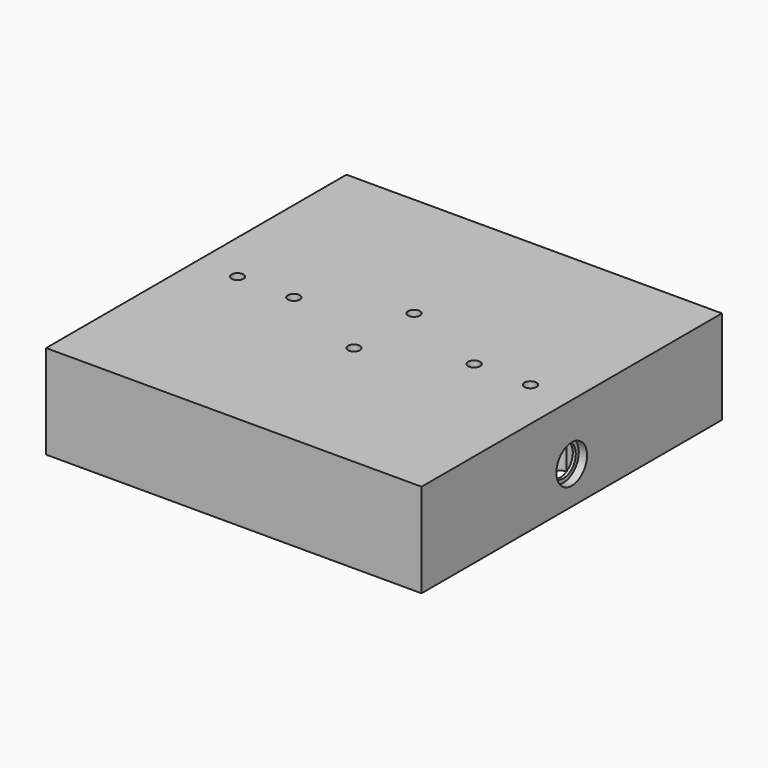
from build123d import *

# Parameters (mm, degrees)
F0_W           = 100
F0_H           = 100
F1_DEPTH       = 25
F2_W           = 94
F2_H           = 94
F3_DEPTH       = 20
F5_D           = 8.2
F5_CBORE_D     = 10.2
F5_CBORE_DEPTH = 2.2
F6_R           = 4
F7_DEPTH       = 25
F9_D           = 3.2
F10_R          = 1.6
F11_DEPTH      = 20
F12_W          = 94
F12_H          = 20
F13_DEPTH      = 20


with BuildPart() as f1:
    # F0 (on Top) → F1 (new body)
    with BuildSketch(Plane.XY):
        Rectangle(F0_W, F0_H)
    extrude(amount=F1_DEPTH)

    # F2 (on Top) → F3 (cut)
    with BuildSketch(Plane.XY):
        Rectangle(F2_W, F2_H)
    extrude(amount=F3_DEPTH, mode=Mode.SUBTRACT)

    # F5 (through all)
    with Locations(Plane.YZ.offset(50)):
        with Locations((0, 10)):
            CounterBoreHole(F5_D / 2, F5_CBORE_D / 2, F5_CBORE_DEPTH)

    # F6 (on face) → F7 (join)
    with BuildSketch(Plane.XY.offset(25)):
        with Locations((0, -10)):
            Circle(F6_R)
        with Locations((0, 10)):
            Circle(F6_R)
        with Locations((-24, 10)):
            Circle(F6_R)
        with Locations((-39, 10)):
            Circle(F6_R)
        with Locations((24, 10)):
            Circle(F6_R)
        with Locations((39, 10)):
            Circle(F6_R)
        with Locations((-24, -10)):
            Circle(F6_R)
        with Locations((24, -10)):
            Circle(F6_R)
        with Locations((39, -10)):
            Circle(F6_R)
        with Locations((-39, -10)):
            Circle(F6_R)
    extrude(amount=-F7_DEPTH)

    # F9 (through all)
    with Locations(Plane.XY.offset(25)):
        with Locations((-39, 0), (-24, 0), (0, 10), (24, 0), (39, 0), (0, -10)):
            Hole(F9_D / 2)

    # F10 (on Top) → F11 (cut)
    with BuildSketch(Plane.XY):
        with Locations((-39, -10)):
            Circle(F10_R)
        with Locations((-24, -10)):
            Circle(F10_R)
        with Locations((-24, 10)):
            Circle(F10_R)
        with Locations((-39, 10)):
            Circle(F10_R)
        with Locations((24, 10)):
            Circle(F10_R)
        with Locations((39, 10)):
            Circle(F10_R)
        with Locations((39, -10)):
            Circle(F10_R)
        with Locations((24, -10)):
            Circle(F10_R)
    extrude(amount=F11_DEPTH, mode=Mode.SUBTRACT)

    # F12 (on Top) → F13 (cut)
    with BuildSketch(Plane.XY):
        Rectangle(F12_W, F12_H)
    extrude(amount=F13_DEPTH, mode=Mode.SUBTRACT)


solid = f1.part
